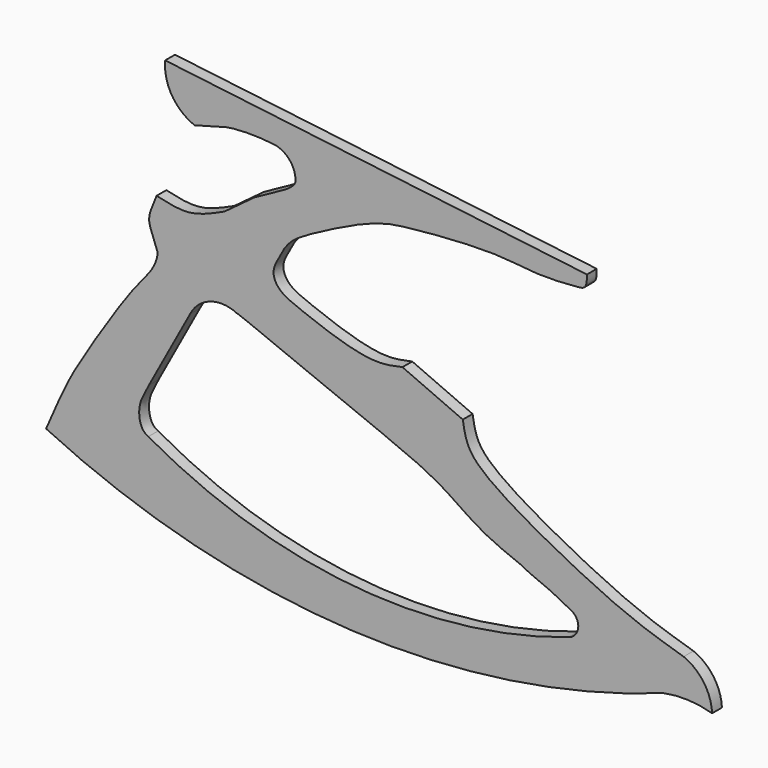
from build123d import *

# Parameters (mm, degrees)
F1_DEPTH = 19.05


with BuildPart() as f1:
    # F0 (on Front) → F1 (new body)
    with BuildSketch(Plane.XZ):
        with BuildLine():
            Line((867.5659157546, -172.122965693), (212.0003320067, -92.3612868911))
            ThreePointArc((212.0003320067, -92.3612868911), (222.3995600066, -136.900390805), (257.4966226914, -166.227373455))
            ThreePointArc((257.4966226914, -166.227373455), (257.602431606, -166.2687309718), (257.708305539, -166.3099217584))
            add(Edge.make_bspline(
                [(257.708305539, -166.3099217584), (263.889345526, -164.8948953713), (277.7915303668, -161.7255969098), (307.0677995636, -150.904656266), (347.207823828, -149.4459392206), (369.2788783367, -151.0309993859), (379.6415328979, -152.1486341953)],
                knots=[0, 0, 0, 0, 0.2022210868, 0.4545396641, 0.741938696, 1, 1, 1, 1], degree=3))
            ThreePointArc((379.6415328979, -152.1486341953), (402.0201343478, -162.1727987791), (413.8580560684, -183.647185564))
            add(Edge.make_bspline(
                [(413.8580560684, -183.647185564), (414.7080795672, -188.5005828152), (416.8189444046, -196.9929141067), (400.041872534, -207.6305537785), (399.2871964693, -208.1057313248)],
                knots=[0, 0, 0, 0, 0.4803695507, 0.9520593762, 0.9520593762, 0.9520593762, 0.9520593762], degree=3))
            Line((399.2871964693, -208.1057313248), (350.2117693424, -235.123693943))
            Line((350.2117693424, -235.123693943), (304.2319417, -269.2471146584))
            add(Edge.make_bspline(
                [(198.5960453749, -282.0386588573), (206.9375302389, -284.0173973421), (224.5817815009, -288.2029062265), (258.4264981325, -290.2549184985), (287.8816768746, -276.7458556252), (304.2319417, -269.2471146584)],
                knots=[0, 0, 0, 0, 0.2851712653, 0.6032059686, 1, 1, 1, 1], degree=3))
            add(Edge.make_bspline(
                [(198.5960453749, -282.0386588573), (194.4717659318, -291.5819054587), (187.3924821162, -307.9627914157), (186.3800554609, -323.2240457084), (193.4116640017, -339.809847974), (197.5785673783, -352.5642611033), (200.3682372519, -357.807549705), (199.8280405456, -367.9323155899), (192.1547973637, -384.7118577115), (180.8959301935, -399.1618511463), (152.675508108, -432.595024407), (95.2827079234, -521.5052692323), (59.5290947961, -580.5224571958), (37.992692276, -630.7184244384), (26.9092898816, -656.5510630608)],
                knots=[0, 0, 0, 0, 0.0818552626, 0.1405037276, 0.2054284774, 0.2612130859, 0.2972006237, 0.3441357512, 0.4092272357, 0.4733127858, 0.5733766376, 0.7314163611, 0.8617772609, 1, 1, 1, 1], degree=3))
            ThreePointArc((26.9092898816, -656.5510630608), (501.5276729796, -778.1049235201), (986.1880958133, -706.3956137637))
            ThreePointArc((986.1880958133, -706.3956137637), (1024.3303374184, -703.2067303324), (1062.1124505997, -709.3313932419))
            ThreePointArc((1062.1124505997, -709.3313932419), (1049.2020193975, -671.3278687352), (1017.8868836687, -646.221905638))
            add(Edge.make_bspline(
                [(1017.8868836687, -646.221905638), (995.3420538582, -639.3163833185), (948.3458439348, -625.0819400487), (866.518956337, -589.3379132931), (752.4176156883, -529.2762880485), (690.7284551151, -484.7713812791), (678.4185873886, -457.0453569229), (675.2564942955, -438.171881589), (674.5953559875, -433.4532320499)],
                knots=[0, 0, 0, 0, 0.1749250946, 0.3729494968, 0.6128253133, 0.7908329232, 0.9027336265, 1, 1, 1, 1], degree=3))
            Line((674.5953559875, -433.4532320499), (580.7676315308, -392.2003209591))
            add(Edge.make_bspline(
                [(580.7676315308, -392.2003209591), (568.3131269023, -395.0069343639), (540.3401870527, -401.3106156659), (479.787889309, -387.0365375287), (423.536823473, -365.2769434616), (388.9212328755, -351.7119347262), (376.5685175476, -327.3152378778), (389.1456668372, -303.5386307325), (404.0359068477, -276.1392045088), (443.3693011665, -252.8093775073), (533.5839793513, -206.7745091545), (592.0991855908, -197.0228126553), (727.6862766964, -186.913709722), (785.4545261176, -198.5626579604), (848.7075600791, -194.8603952462), (867.3103577202, -192.3662792293), (867.4781358683, -179.0762033947), (867.5659157546, -172.122965693)],
                knots=[0, 0, 0, 0, 0.0611419639, 0.1373254521, 0.213729724, 0.2715252946, 0.3175925445, 0.3659465091, 0.4184765838, 0.4839223111, 0.5796140283, 0.6581118836, 0.7685411621, 0.8469634947, 0.9219493061, 0.9591646403, 1, 1, 1, 1], degree=3))
        make_face()
        with BuildLine():
            ThreePointArc((839.0783667564, -677.7136921883), (505.8202726261, -716.495969998), (185.8028620481, -615.7295107841))
            add(Edge.make_bspline(
                [(186.5414232016, -545.3027486801), (183.5780739784, -551.0792136192), (177.6852428134, -561.4717369283), (171.2045857372, -577.9753918708), (171.4499764975, -597.4942605113), (177.6362405716, -611.3537221573), (183.3169861353, -614.3973092654), (185.8028620481, -615.7295107841)],
                knots=[0, 0, 0, 0, 0.2193007631, 0.4324462375, 0.6568029507, 0.8498298528, 1, 1, 1, 1], degree=3))
            Line((186.5414232016, -545.3027486801), (250.6439089775, -426.998436451))
            ThreePointArc((250.6439089775, -426.998436451), (282.3741916439, -399.4422455939), (324.2815732956, -402.5927782059))
            add(Edge.make_bspline(
                [(841.7740017562, -639.1454827809), (831.7276650817, -633.6038863452), (812.0456216395, -622.7471984478), (779.4429566587, -611.3086416584), (768.0337755722, -602.4415683387), (705.9790128335, -581.8354768023), (643.7090647166, -533.0298888973), (569.0662921341, -500.3214043621), (452.4663875428, -454.3505221704), (326.0030267701, -402.0117479354), (324.3821656104, -402.5588259784), (324.2815732956, -402.5927782059)],
                knots=[0, 0, 0, 0, 0.0915149729, 0.1792893998, 0.23747192, 0.357846865, 0.4968429487, 0.6327687162, 0.8181227909, 0.9887125129, 1, 1, 1, 1], degree=3))
            ThreePointArc((841.7740017562, -639.1454827809), (854.0412957317, -659.3811839311), (839.0783667564, -677.7136921883))
        make_face(mode=Mode.SUBTRACT)
        with BuildLine():
            add(Edge.make_bspline(
                [(399.2871964693, -208.1057313248), (399.2104942821, -208.1540264263), (399.2118587905, -208.1527882921), (399.3040919304, -208.0964297056)],
                knots=[0.9520593762, 0.9520593762, 0.9520593762, 0.9520593762, 1, 1, 1, 1], degree=3))
            Line((399.2871964693, -208.1057313248), (399.3040919304, -208.0964297056))
        make_face(mode=Mode.SUBTRACT)
        with BuildLine():
            Line((399.3040919304, -208.0964297056), (399.2871964693, -208.1057313248))
            add(Edge.make_bspline(
                [(399.2871964693, -208.1057313248), (399.2104942821, -208.1540264263), (399.2118587905, -208.1527882921), (399.3040919304, -208.0964297056)],
                knots=[0.9520593762, 0.9520593762, 0.9520593762, 0.9520593762, 1, 1, 1, 1], degree=3))
        make_face()
    extrude(amount=F1_DEPTH)


solid = f1.part
